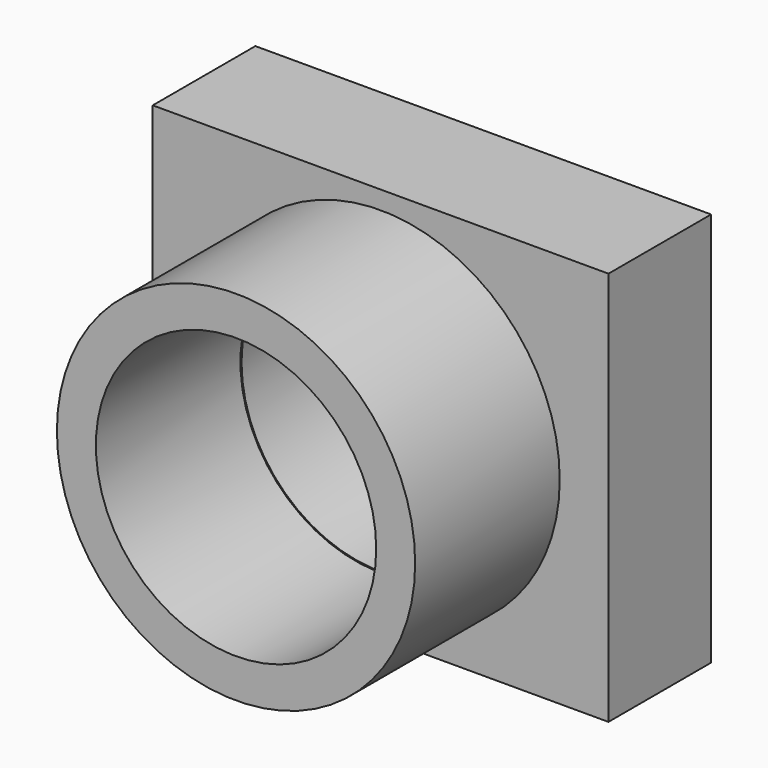
from build123d import *

# Parameters (mm, degrees)
F0_W     = 128.114178
F0_H     = 110.934116
F0_R     = 39.096531
F1_DEPTH = 36.068
F2_R     = 50.357912
F2_R_2   = 39.406524
F3_DEPTH = 50.8


with BuildPart() as f1:
    # F0 (on Front) → F1 (new body)
    with BuildSketch(Plane.XZ):
        Rectangle(F0_W, F0_H)
        Circle(F0_R, mode=Mode.SUBTRACT)
    extrude(amount=-F1_DEPTH)

    # F2 (on Front) → F3 (join)
    with BuildSketch(Plane.XZ):
        Circle(F2_R)
        Circle(F2_R_2, mode=Mode.SUBTRACT)
    extrude(amount=F3_DEPTH)


solid = f1.part
